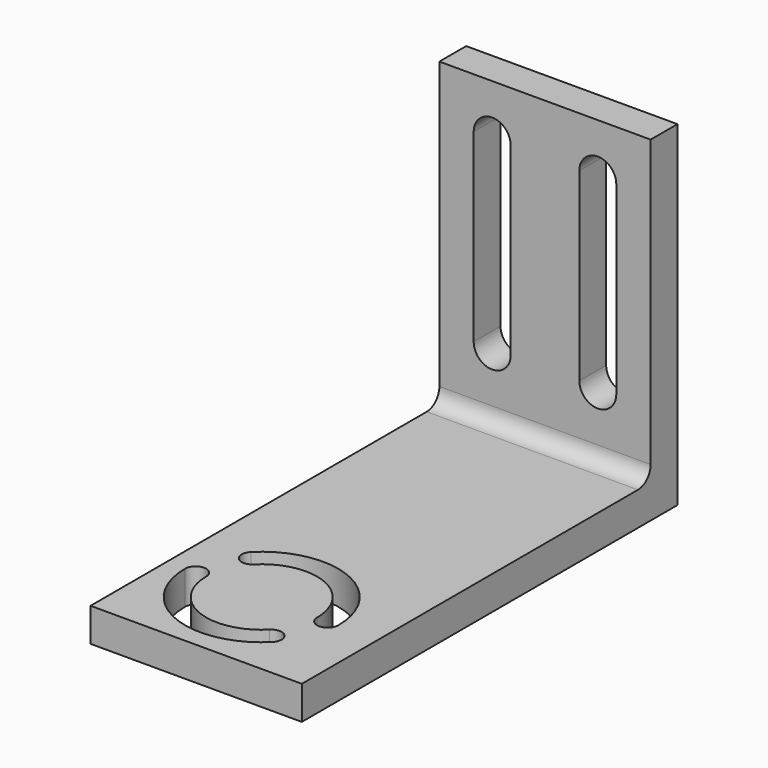
from build123d import *

# Parameters (mm, degrees)
F1_DEPTH = 40
F3_DEPTH = 25
F4_R     = 3
F6_DEPTH = 25


with BuildPart() as f1:
    # F0 (on Right) → F1 (new body)
    with BuildSketch(Plane.YZ):
        Polygon((-44.45, 6.35), (-44.45, 0), (44.45, 0), (44.45, 63.5), (38.1, 63.5), (38.1, 6.35), align=None)
    extrude(amount=F1_DEPTH)

    # F2 (on face) → F3 (cut)
    with BuildSketch(Plane.XY.offset(6.35)):
        with BuildLine():
            ThreePointArc((7.5, -26.45), (5.5, -24.45), (3.5, -26.45))
            ThreePointArc((3.5, -26.45), (12.4510902307, -39.8462532214), (28.2530483272, -36.7030483272))
            ThreePointArc((28.2530483272, -36.7030483272), (28.2530483272, -33.8746212025), (25.4246212025, -33.8746212025))
            ThreePointArc((25.4246212025, -33.8746212025), (13.9818239602, -36.1507350914), (7.5, -26.45))
        make_face()
        with BuildLine():
            ThreePointArc((28.5, -26.45), (30.5, -28.45), (32.5, -26.45))
            ThreePointArc((32.5, -26.45), (23.5489097693, -13.0537467786), (7.7469516728, -16.1969516728))
            ThreePointArc((7.7469516728, -16.1969516728), (7.7469516728, -19.0253787975), (10.5753787975, -19.0253787975))
            ThreePointArc((10.5753787975, -19.0253787975), (22.0181760398, -16.7492649086), (28.5, -26.45))
        make_face()
    extrude(amount=-F3_DEPTH, mode=Mode.SUBTRACT)

    # F4
    f4_edges = [f1.edges().sort_by_distance(p)[0] for p in [
        (20, 38.1, 6.35),
    ]]
    fillet(f4_edges, radius=F4_R)

    # F5 (on face) → F6 (cut)
    with BuildSketch(Plane.XZ.offset(-38.1)):
        with BuildLine():
            ThreePointArc((13.5, 53.925), (10, 57.425), (6.5, 53.925))
            Line((6.5, 53.925), (6.5, 18.925))
            ThreePointArc((6.5, 18.925), (10, 15.425), (13.5, 18.925))
            Line((13.5, 18.925), (13.5, 53.925))
        make_face()
        with BuildLine():
            ThreePointArc((33.5, 53.925), (30, 57.425), (26.5, 53.925))
            Line((26.5, 53.925), (26.5, 18.925))
            ThreePointArc((26.5, 18.925), (30, 15.425), (33.5, 18.925))
            Line((33.5, 18.925), (33.5, 53.925))
        make_face()
    extrude(amount=-F6_DEPTH, mode=Mode.SUBTRACT)


solid = f1.part
